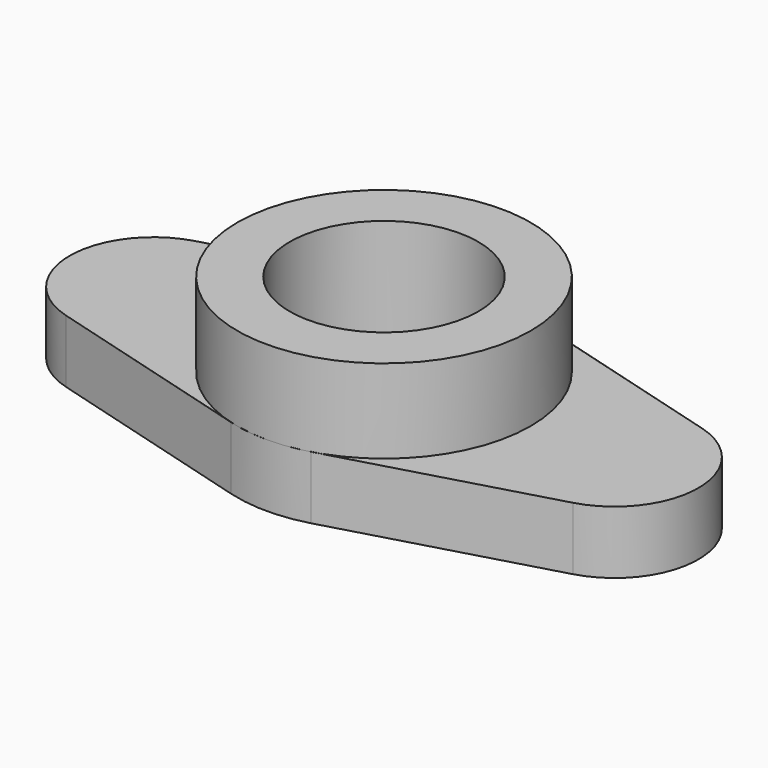
from build123d import *

# Parameters (mm, degrees)
F0_R     = 22.5
F0_R_2   = 8
F1_DEPTH = 15
F2_R     = 35
F2_R_2   = 22.5
F3_DEPTH = 35


with BuildPart() as f1:
    # F0 (on Top) → F1 (new body)
    with BuildSketch(Plane.XY):
        with BuildLine():
            ThreePointArc((9.545455, -33.673199), (27.920341, -21.105794), (35, 0))
            ThreePointArc((35, 0), (27.920341, 21.105794), (9.545455, 33.673199))
            ThreePointArc((9.545455, 33.673199), (0, 35), (-9.545455, 33.673199))
            ThreePointArc((-9.545455, 33.673199), (-35, 0), (-9.545455, -33.673199))
            ThreePointArc((-9.545455, -33.673199), (0, -35), (9.545455, -33.673199))
        make_face()
        Circle(F0_R, mode=Mode.SUBTRACT)
        with BuildLine():
            ThreePointArc((9.545455, 33.673199), (27.920341, 21.105794), (35, 0))
            ThreePointArc((35, 0), (27.920341, -21.105794), (9.545455, -33.673199))
            Line((9.545455, -33.673199), (60.454545, -19.241828))
            ThreePointArc((60.454545, -19.241828), (75, 0), (60.454545, 19.241828))
            Line((60.454545, 19.241828), (9.545455, 33.673199))
        make_face()
        with Locations((55, 0)):
            Circle(F0_R_2, mode=Mode.SUBTRACT)
        with BuildLine():
            ThreePointArc((-9.545455, -33.673199), (-35, 0), (-9.545455, 33.673199))
            Line((-9.545455, 33.673199), (-60.454545, 19.241828))
            ThreePointArc((-60.454545, 19.241828), (-75, 0), (-60.454545, -19.241828))
            Line((-60.454545, -19.241828), (-9.545455, -33.673199))
        make_face()
        with Locations((-55, 0)):
            Circle(F0_R_2, mode=Mode.SUBTRACT)
    extrude(amount=F1_DEPTH)

    # F2 (on Top) → F3 (join)
    with BuildSketch(Plane.XY):
        Circle(F2_R)
        Circle(F2_R_2, mode=Mode.SUBTRACT)
    extrude(amount=F3_DEPTH)


solid = f1.part
